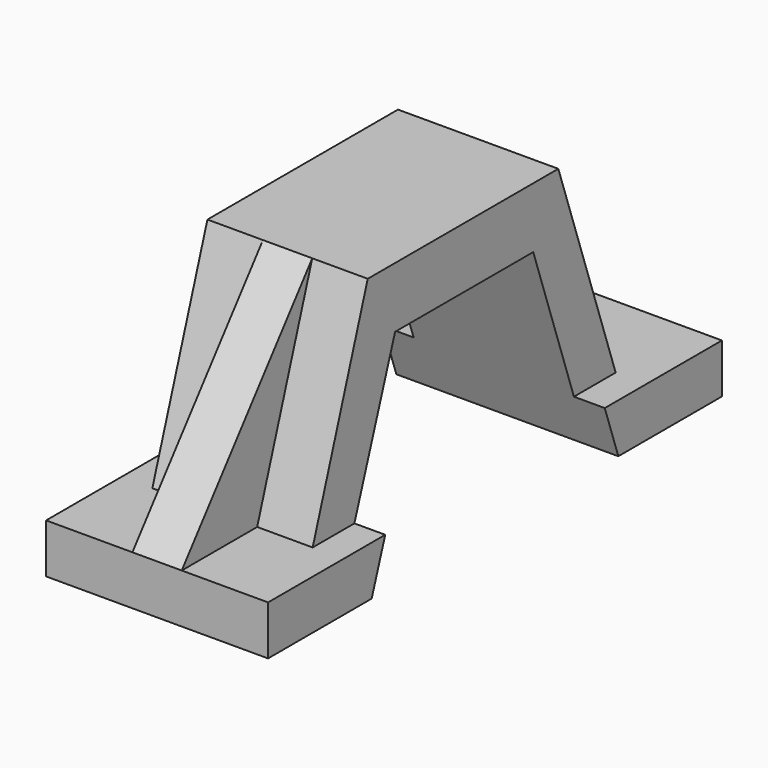
from build123d import *

# Parameters (mm, degrees)
F1_DEPTH = 36
F3_DEPTH = 5
F5_DEPTH = 5
F6_DEPTH = 22
F7_DEPTH = 14


with BuildPart() as f1:
    # F0 (on Right) → F1 (new body)
    with BuildSketch(Plane.YZ):
        Polygon((-64.146131, 8), (-64.146131, 0), (-43.146131, 0), (-32.146131, 32), (-4.146131, 32), (6.853869, 0), (27.853869, 0), (27.853869, 8), (12.563331, 8), (0.937467, 41.820695), (-28.062533, 41.820695), (-37.689707, 41.820695), (-48.855593, 8), align=None)
    extrude(amount=F1_DEPTH)

    # F2 (on face) → F3 (cut)
    with BuildSketch(Plane.YZ.offset(36)):
        Polygon((-37.689707, 41.820695), (-48.855593, 8), (-40.396131, 8), (-32.146131, 32), (-4.146131, 32), (4.103869, 8), (12.563331, 8), (0.937467, 41.820695), align=None)
    extrude(amount=-F3_DEPTH, mode=Mode.SUBTRACT)

    # F4 (on face) → F5 (cut)
    with BuildSketch(Plane(origin=(0, 0, 0), x_dir=(0, -1, 0), z_dir=(-1, 0, 0))):
        Polygon((-0.937467, 41.820695), (-12.563331, 8), (-4.103869, 8), (4.146131, 32), (32.146131, 32), (40.396131, 8), (48.855593, 8), (37.689707, 41.820695), align=None)
    extrude(amount=-F5_DEPTH, mode=Mode.SUBTRACT)

    # F0 (on Right) → F6 (join)
    with BuildSketch(Plane.YZ):
        Polygon((-37.689707, 41.820695), (-64.146131, 8), (-48.855593, 8), align=None)
    extrude(amount=F6_DEPTH)

    # F0 (on Right) → F7 (cut)
    with BuildSketch(Plane.YZ):
        Polygon((-37.689707, 41.820695), (-64.146131, 8), (-48.855593, 8), align=None)
    extrude(amount=F7_DEPTH, mode=Mode.SUBTRACT)


solid = f1.part
